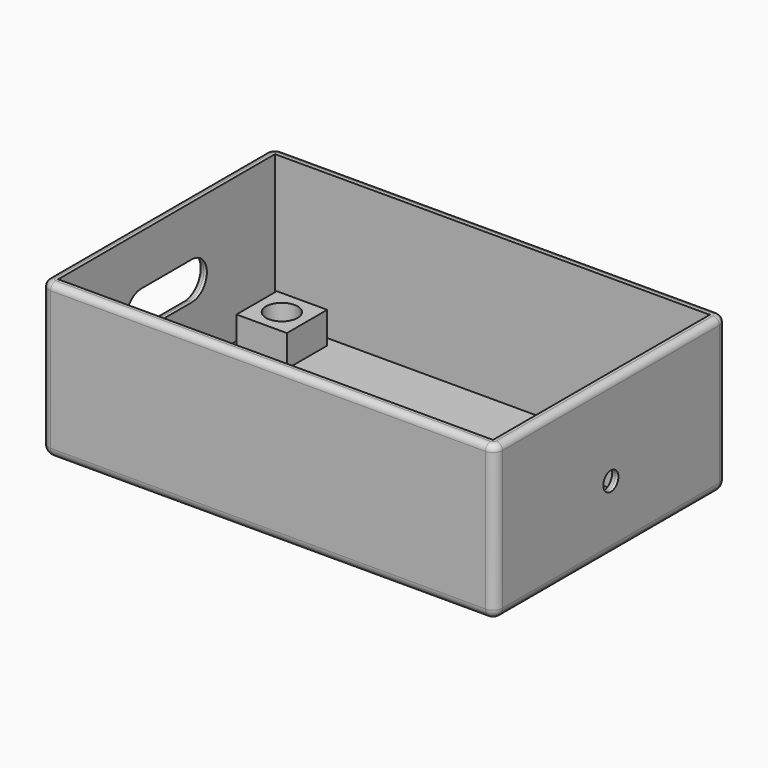
from build123d import *

# Parameters (mm, degrees)
SKETCH_W        = 69
SKETCH_H        = 43
PAD_DEPTH       = 23
THICKNESS_T     = 1.5
SKETCH001_R     = 1.5
HOLE_DEPTH      = 2.098709
HOLE_TIPS_R     = 1.5
POCKET_DEPTH    = 5
SKETCH003_W     = 8
SKETCH003_H     = 8
PAD001_DEPTH    = 5
SKETCH007_R     = 2.5
POCKET003_DEPTH = 7
SKETCH008_R     = 2.5
POCKET004_DEPTH = 7
SKETCH009_R     = 2.5
POCKET005_DEPTH = 7
SKETCH010_R     = 2.5
POCKET006_DEPTH = 7
POCKET007_DEPTH = 3
FILLET_R        = 1
FILLET001_R     = 1


with BuildPart() as part:
    # Sketch → Pad (new body)
    with BuildSketch(Plane.XY):
        Rectangle(SKETCH_W, SKETCH_H)
    extrude(amount=PAD_DEPTH)

    # Thickness
    thickness_openings = [part.faces().sort_by_distance(p)[0] for p in [
        (0, 0, 23),
    ]]
    offset(amount=THICKNESS_T, openings=thickness_openings)

    # Sketch001 (on Face10 of Thickness) → Hole (cut)
    with BuildSketch(Plane.YZ.offset(36)):
        with Locations((0, 9)):
            Circle(SKETCH001_R)
    extrude(amount=-HOLE_DEPTH, mode=Mode.SUBTRACT)

    # Hole tips → Hole tip 1 section 0
    with BuildSketch(Plane.YZ.offset(33.901291), mode=Mode.PRIVATE) as hole_tip_1_s0:
        with Locations((0, 9)):
            Circle(HOLE_TIPS_R)
    loft([hole_tip_1_s0.sketch, Vertex(33, 0, 9)], mode=Mode.SUBTRACT)

    # Sketch002 (on Face9 of Hole) → Pocket (cut)
    with BuildSketch(Plane(origin=(-36, 0, 0), x_dir=(0, -1, 0), z_dir=(-1, 0, 0))):
        with BuildLine():
            ThreePointArc((-5, 15), (-8, 12), (-5, 9))
            Line((-5, 9), (5, 9))
            ThreePointArc((5, 9), (8, 12), (5, 15))
            Line((-5, 15), (5, 15))
        make_face()
    extrude(amount=-POCKET_DEPTH, mode=Mode.SUBTRACT)

    # Sketch003 (on Face4 of Pocket) → Pad001 (join)
    with BuildSketch(Plane.XY):
        with Locations((-28.95, 15.925)):
            Rectangle(SKETCH003_W, SKETCH003_H)
        with Locations((28.95, 15.925)):
            Rectangle(SKETCH003_W, SKETCH003_H)
        with Locations((-28.95, -15.925)):
            Rectangle(SKETCH003_W, SKETCH003_H)
        with Locations((28.95, -15.925)):
            Rectangle(SKETCH003_W, SKETCH003_H)
    extrude(amount=PAD001_DEPTH)

    # Sketch007 (on Face39 of Pad001) → Pocket003 (cut)
    with BuildSketch(Plane.XY.offset(5)):
        with Locations((-28.95, 15.925)):
            Circle(SKETCH007_R)
    extrude(amount=-POCKET003_DEPTH, mode=Mode.SUBTRACT)

    # Sketch008 (on Face38 of Pocket003) → Pocket004 (cut)
    with BuildSketch(Plane.XY.offset(5)):
        with Locations((28.95, 15.925)):
            Circle(SKETCH008_R)
    extrude(amount=-POCKET004_DEPTH, mode=Mode.SUBTRACT)

    # Sketch009 (on Face37 of Pocket004) → Pocket005 (cut)
    with BuildSketch(Plane.XY.offset(5)):
        with Locations((-28.95, -15.925)):
            Circle(SKETCH009_R)
    extrude(amount=-POCKET005_DEPTH, mode=Mode.SUBTRACT)

    # Sketch010 (on Face36 of Pocket005) → Pocket006 (cut)
    with BuildSketch(Plane.XY.offset(5)):
        with Locations((28.95, -15.925)):
            Circle(SKETCH010_R)
    extrude(amount=-POCKET006_DEPTH, mode=Mode.SUBTRACT)

    # Sketch011 (on Face52 of Pocket006) → Pocket007 (cut)
    with BuildSketch(Plane(origin=(0, 0, -1.5), x_dir=(1, 0, 0), z_dir=(0, 0, -1))):
        Polygon((-25.145774, 17.161068), (-28.95, 19.925), (-32.754226, 17.161068), (-31.301141, 12.688932), (-26.598859, 12.688932), align=None)
        Polygon((26.598859, 12.688932), (31.301141, 12.688932), (32.754226, 17.161068), (28.95, 19.925), (25.145774, 17.161068), align=None)
        Polygon((-26.598859, -12.688932), (-31.301141, -12.688932), (-32.754226, -17.161068), (-28.95, -19.925), (-25.145774, -17.161068), align=None)
        Polygon((26.598859, -12.688932), (25.145774, -17.161068), (28.95, -19.925), (32.754226, -17.161068), (31.301141, -12.688932), align=None)
    extrude(amount=-POCKET007_DEPTH, mode=Mode.SUBTRACT)

    # Fillet
    fillet_edges = [part.edges().sort_by_distance(p)[0] for p in [
        (34.5, 0, 10.5),
    ]]
    fillet(fillet_edges, radius=FILLET_R)

    # Fillet001
    fillet001_edges = [part.edges().sort_by_distance(p)[0] for p in [
        (-36, 0, 0),
        (-36, -21.5, 11.5),
        (-36, 21.5, 11.5),
        (-36, 0, 23),
        (-36, 8, 12),
        (-36, 0, 9),
        (-36, -8, 12),
        (-36, 0, 15),
    ]]
    fillet(fillet001_edges, radius=FILLET001_R)


solid = part.part
